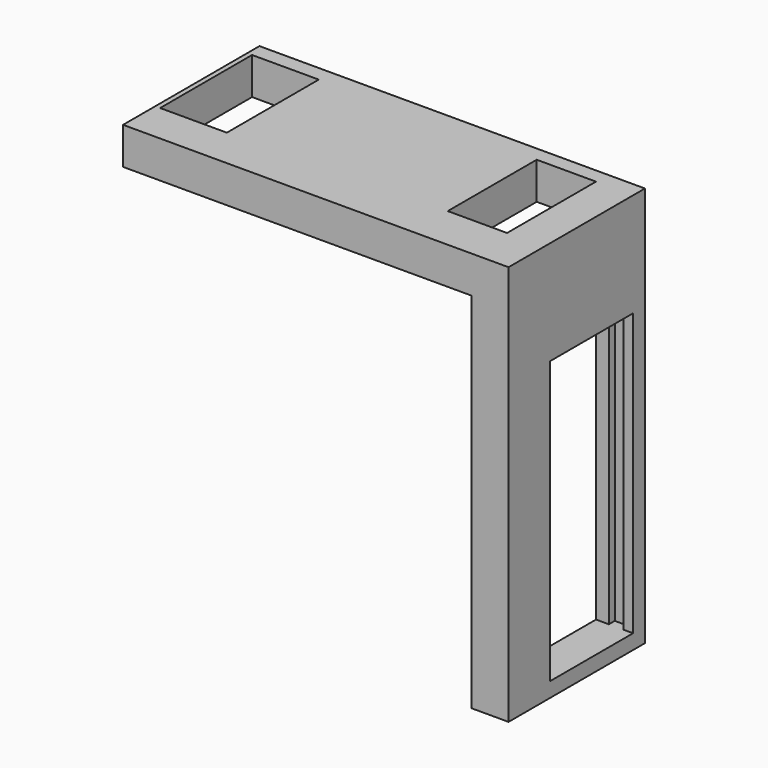
from build123d import *

# Parameters (mm, degrees)
SKETCH040_W                = 15.5
SKETCH040_H                = 9
EXTRUDE038_DEPTH           = 6
EXTRUDE038_PLACEMENT_ANGLE = 90
BOX069_W                   = 8
BOX069_H                   = 15
BOX069_DEPTH               = 15
BOX063_W                   = 2
BOX063_H                   = 14
BOX063_DEPTH               = 37
BOX048_W                   = 2
BOX048_H                   = 19
BOX048_DEPTH               = 40
BOX064_W                   = 8
BOX064_H                   = 14
BOX064_DEPTH               = 38
BOX047_W                   = 5
BOX047_H                   = 23
BOX047_DEPTH               = 49
BOX046_W                   = 52
BOX046_H                   = 23
BOX046_DEPTH               = 5


with BuildPart() as tab001:
    # Sketch040 → Extrude038 (new body)
    with BuildSketch(Plane.XY):
        with Locations((3.19859, 5.867378)):
            Rectangle(SKETCH040_W, SKETCH040_H)
    extrude(amount=EXTRUDE038_DEPTH)


with BuildPart() as tab001_1:
    # Extrude038 placement: moved
    add(tab001.part.moved(Location((142.792, 58.9812, 48.0053))).rotate(Axis((142.792, 58.9812, 48.0053), (0, 0, 1)), EXTRUDE038_PLACEMENT_ANGLE))


with BuildPart() as cables_cut_encoder_piece:
    # Box069 → Box069 (new body)
    with BuildSketch(Plane(origin=(170.769, 55, 44.0053), x_dir=(1, 0, 0), z_dir=(0, 0, 1))):
        with Locations((4, 7.5)):
            Rectangle(BOX069_W, BOX069_H)
    extrude(amount=BOX069_DEPTH)


with BuildPart() as cube016:
    # Box063 → Box063 (new body)
    with BuildSketch(Plane(origin=(201.5, 41, 3), x_dir=(1, 0, 0), z_dir=(0, 0, 1))):
        with Locations((1, 7)):
            Rectangle(BOX063_W, BOX063_H)
    extrude(amount=BOX063_DEPTH)


with BuildPart() as cube010:
    # Box048 → Box048 (new body)
    with BuildSketch(Plane(origin=(203.5, 37, 2), x_dir=(1, 0, 0), z_dir=(0, 0, 1))):
        with Locations((1, 9.5)):
            Rectangle(BOX048_W, BOX048_H)
    extrude(amount=BOX048_DEPTH)


with BuildPart() as encoder_support_slider:
    # Box064 → Box064 (new body)
    with BuildSketch(Plane(origin=(200.5, 41, 2), x_dir=(1, 0, 0), z_dir=(0, 0, 1))):
        with Locations((4, 7)):
            Rectangle(BOX064_W, BOX064_H)
    extrude(amount=BOX064_DEPTH)

    # Fusion125: union Cube016, Cube010
    add(cube016.part)
    add(cube010.part)


with BuildPart() as cube009:
    # Box047 → Box047 (new body)
    with BuildSketch(Plane(origin=(201.768682, 38, 0.005261), x_dir=(1, 0, 0), z_dir=(0, 0, 1))):
        with Locations((2.5, 11.5)):
            Rectangle(BOX047_W, BOX047_H)
    extrude(amount=BOX047_DEPTH)


with BuildPart() as encoder_support_with_tab:
    # Box046 → Box046 (new body)
    with BuildSketch(Plane(origin=(154.768682, 38, 49.005261), x_dir=(1, 0, 0), z_dir=(0, 0, 1))):
        with Locations((26, 11.5)):
            Rectangle(BOX046_W, BOX046_H)
    extrude(amount=BOX046_DEPTH)

    # Fusion094: union Cube009
    add(cube009.part)


with BuildPart() as encoder_support_with_tab_1:
    # Fusion094 placement: moved
    add(encoder_support_with_tab.part.moved(Location((0, -4, 0))))

    # Cut073: cut Encoder support slider
    add(encoder_support_slider.part, mode=Mode.SUBTRACT)


with BuildPart() as encoder_support_with_tab_2:
    # Cut073 placement: moved
    add(encoder_support_with_tab_1.part.moved(Location((-23, 15, 0))))

    # Cut076: cut Cables cut encoder piece
    add(cables_cut_encoder_piece.part, mode=Mode.SUBTRACT)

    # Cut077: cut Tab001
    add(tab001_1.part, mode=Mode.SUBTRACT)


solid = encoder_support_with_tab_2.part
